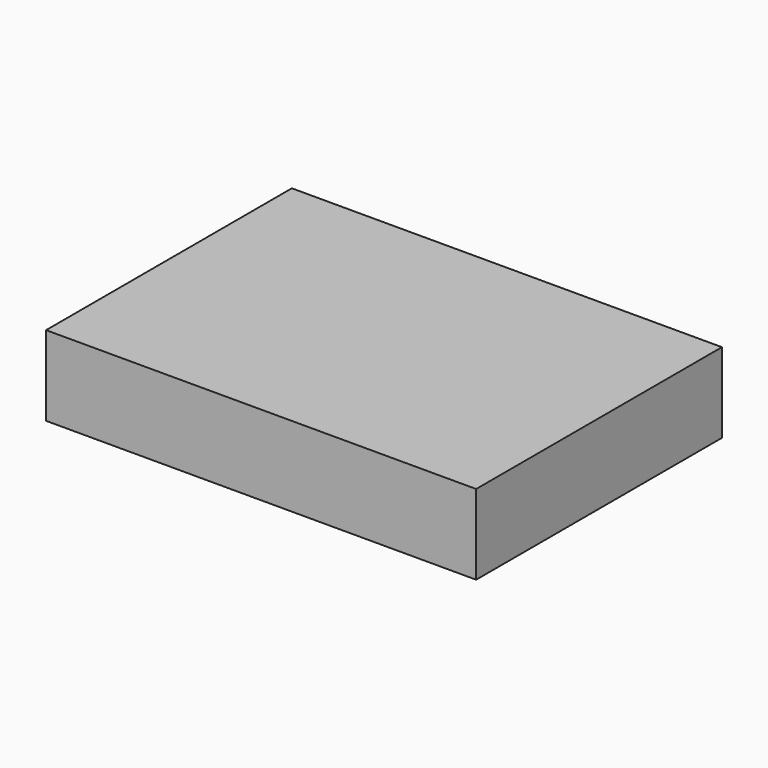
from build123d import *

# Parameters (mm, degrees)
SKETCH_W  = 7
SKETCH_H  = 5
PAD_DEPTH = 1.3


with BuildPart() as part:
    # Sketch → Pad (new body)
    with BuildSketch(Plane.XY):
        with Locations((3.5, 2.5)):
            Rectangle(SKETCH_W, SKETCH_H)
    extrude(amount=PAD_DEPTH)


solid = part.part
